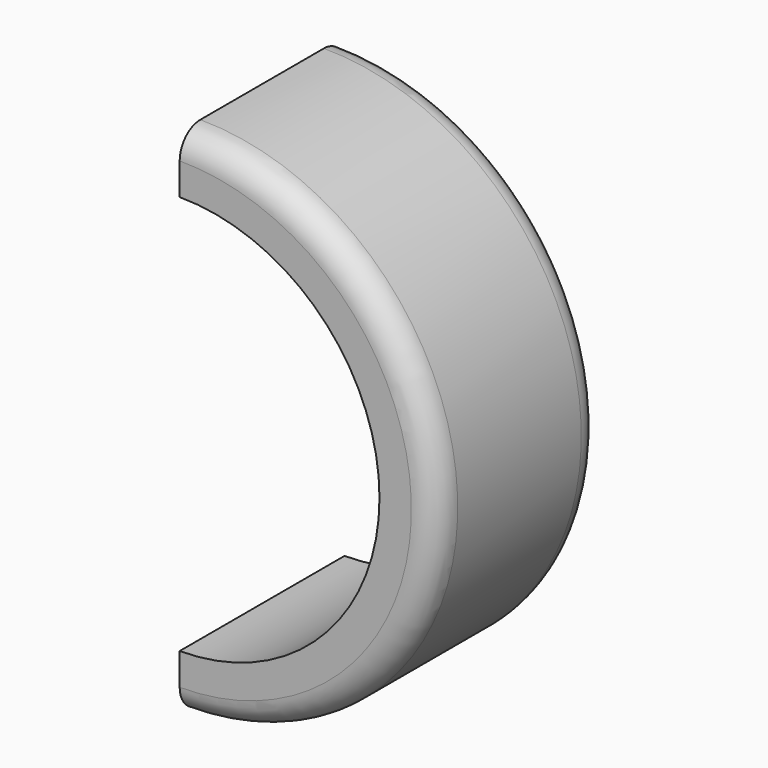
from build123d import *

# Parameters (mm, degrees)
F0_R     = 31.75
F0_R_2   = 24.638
F1_DEPTH = 12.7
F2_R     = 3.175
F3_W     = 32.752518
F3_H     = 69.030817
F4_DEPTH = 15.875


with BuildPart() as f1:
    # F0 (on Front) → F1 (new body, symmetric)
    with BuildSketch(Plane.XZ):
        Circle(F0_R)
        Circle(F0_R_2, mode=Mode.SUBTRACT)
    extrude(amount=F1_DEPTH, both=True)

    # F2
    f2_edges = [f1.edges().sort_by_distance(p)[0] for p in [
        (-31.75, -12.7, 0),
        (-31.75, 12.7, 0),
    ]]
    fillet(f2_edges, radius=F2_R)

    # F3 (on Front) → F4 (cut, symmetric)
    with BuildSketch(Plane.XZ):
        with Locations((-16.376259, -0.200259)):
            Rectangle(F3_W, F3_H)
    extrude(amount=F4_DEPTH, both=True, mode=Mode.SUBTRACT)


solid = f1.part
